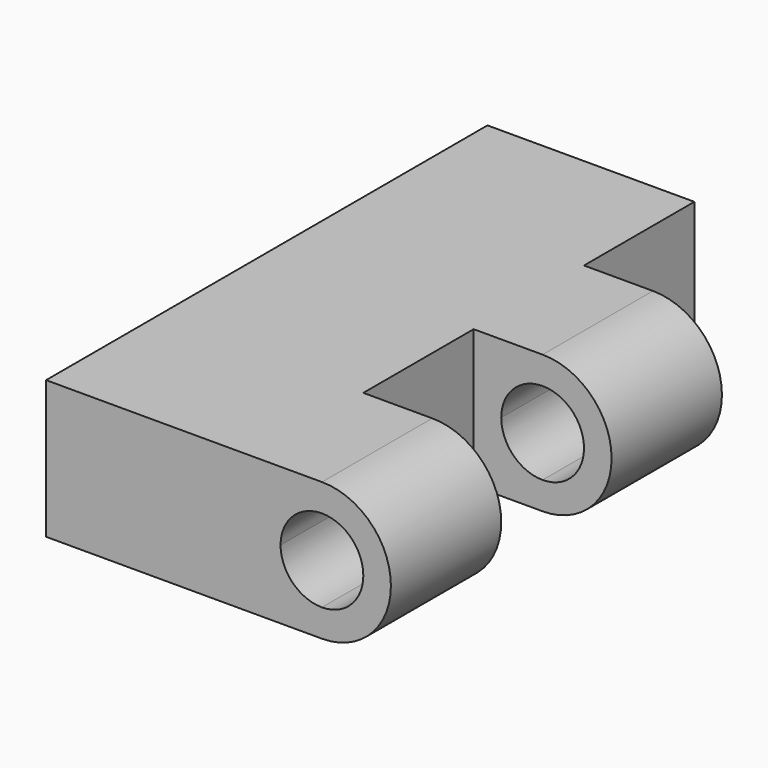
from build123d import *

# Parameters (mm, degrees)
F0_W     = 12.7
F0_H     = 25.4
F1_DEPTH = 6.35
F2_R     = 3.175
F2_R_2   = 1.905
F3_DEPTH = 25.4
F4_DEPTH = 25.4
F5_W     = 6.35
F5_H     = 6.35
F6_DEPTH = 25.4


with BuildPart() as f1:
    # F0 (on Top) → F1 (new body)
    with BuildSketch(Plane.XY):
        Rectangle(F0_W, F0_H)
    extrude(amount=F1_DEPTH)

    # F2 (on face) → F3 (join)
    with BuildSketch(Plane(origin=(0, 12.7, 0), x_dir=(-1, 0, 0), z_dir=(0, 1, 0))):
        with Locations((-6.35, 3.175)):
            Circle(F2_R)
        with Locations((-6.35, 3.175)):
            Circle(F2_R_2, mode=Mode.SUBTRACT)
        with BuildLine():
            ThreePointArc((-4.445, 3.175), (-5.0029615818, 4.5220384182), (-6.35, 5.08))
            Line((-6.35, 5.08), (-6.35, 1.27))
            ThreePointArc((-6.35, 1.27), (-5.0029615818, 1.8279615818), (-4.445, 3.175))
        make_face()
    extrude(amount=-F3_DEPTH)

    # F2 (on face) → F4 (cut)
    with BuildSketch(Plane(origin=(0, 12.7, 0), x_dir=(-1, 0, 0), z_dir=(0, 1, 0))):
        with BuildLine():
            ThreePointArc((-4.445, 3.175), (-5.0029615818, 4.5220384182), (-6.35, 5.08))
            Line((-6.35, 5.08), (-6.35, 1.27))
            ThreePointArc((-6.35, 1.27), (-5.0029615818, 1.8279615818), (-4.445, 3.175))
        make_face()
        with BuildLine():
            Line((-6.35, 1.27), (-6.35, 5.08))
            ThreePointArc((-6.35, 5.08), (-8.255, 3.175), (-6.35, 1.27))
        make_face()
    extrude(amount=-F4_DEPTH, mode=Mode.SUBTRACT)

    # F5 (on face) → F6 (cut)
    with BuildSketch(Plane(origin=(0, 0, 0), x_dir=(1, 0, 0), z_dir=(0, 0, -1))):
        Polygon((3.1755000025, -6.35), (3.1755000025, -12.7), (9.5244999975, -12.7), (9.5255000025, -12.7), (9.5255000025, -6.35), align=None)
        with Locations((6.3505000025, 3.175)):
            Rectangle(F5_W, F5_H)
    extrude(amount=-F6_DEPTH, mode=Mode.SUBTRACT)


solid = f1.part
